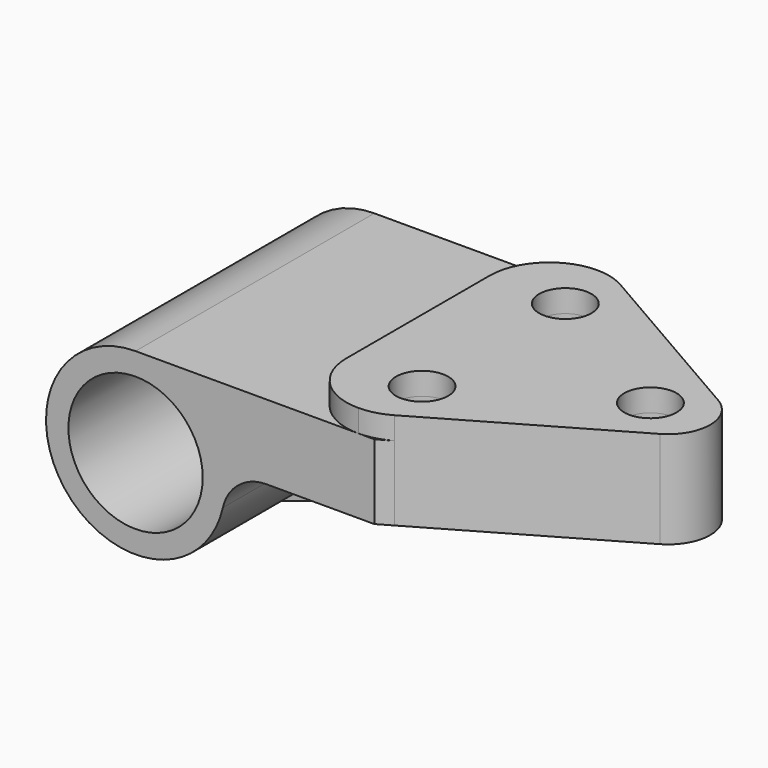
from build123d import *

# Parameters (mm, degrees)
F0_R     = 14.2875
F1_DEPTH = 31.75
F2_DEPTH = 4.7625
F3_R     = 5.5626
F4_DEPTH = 4.7752
F5_DEPTH = 15.875
F6_DEPTH = 15.875


with BuildPart() as f1:
    # F0 (on Front) → F1 (new body, symmetric)
    with BuildSketch(Plane.XZ):
        with BuildLine():
            ThreePointArc((0, 19.05), (12.2967221242, 14.5496778315), (18.7835533113, 3.175))
            Line((18.7835533113, 3.175), (27.86051193, 3.175))
            Line((27.86051193, 3.175), (69.85, 3.175))
            Line((69.85, 3.175), (96.8502, 3.175))
            Line((96.8502, 3.175), (96.8502, 19.05))
            Line((96.8502, 19.05), (0, 19.05))
        make_face()
        with BuildLine():
            ThreePointArc((18.57367462, -4.2333333333), (18.930544122, -2.1300232967), (19.05, 0))
            ThreePointArc((19.05, 0), (18.9832714591, 1.5930802583), (18.7835533113, 3.175))
            ThreePointArc((18.7835533113, 3.175), (12.2967221242, 14.5496778315), (0, 19.05))
            ThreePointArc((0, 19.05), (-18.8046153549, -3.0477764606), (6.0170355936, -18.07478306))
            ThreePointArc((6.0170355936, -18.07478306), (14.1092944486, -12.7996214852), (18.57367462, -4.2333333333))
        make_face()
        Circle(F0_R, mode=Mode.SUBTRACT)
        with BuildLine():
            ThreePointArc((18.7835533113, 3.175), (18.9832714591, 1.5930802583), (19.05, 0))
            ThreePointArc((19.05, 0), (18.930544122, -2.1300232967), (18.57367462, -4.2333333333))
            ThreePointArc((18.57367462, -4.2333333333), (21.9206308285, 1.0960350187), (27.86051193, 3.175))
            Line((27.86051193, 3.175), (18.7835533113, 3.175))
        make_face()
    extrude(amount=F1_DEPTH, both=True)

    # F0 (on Front) → F2 (join, symmetric)
    with BuildSketch(Plane.XZ):
        with BuildLine():
            ThreePointArc((27.86051193, 3.175), (21.9206308285, 1.0960350187), (18.57367462, -4.2333333333))
            ThreePointArc((18.57367462, -4.2333333333), (14.1092944486, -12.7996214852), (6.0170355936, -18.07478306))
            Line((6.0170355936, -18.07478306), (69.85, 3.175))
            Line((69.85, 3.175), (27.86051193, 3.175))
        make_face()
    extrude(amount=F2_DEPTH, both=True)

    # F3 (on face) → F4 (join)
    with BuildSketch(Plane.XY.offset(19.05)):
        with BuildLine():
            ThreePointArc((47.3970452561, -31.75), (50.6840471289, -31.3172579939), (53.7470452561, -30.0485226281))
            Line((53.7470452561, -30.0485226281), (92.3789934298, -7.7443569506))
            ThreePointArc((92.3789934298, -7.7443569506), (95.652143832, -4.4712065327), (96.8502, 8.65e-08))
            ThreePointArc((96.8502, 8.65e-08), (95.6521437887, 4.4712066076), (92.3789934298, 7.7443569506))
            Line((92.3789934298, 7.7443569506), (53.7470452561, 30.0485226281))
            ThreePointArc((53.7470452561, 30.0485226281), (50.6840471289, 31.3172579939), (47.3970452561, 31.75))
            ThreePointArc((47.3970452561, 31.75), (38.4167891351, 28.0302561211), (34.6970452561, 19.05))
            Line((34.6970452561, 19.05), (34.6970452561, -19.05))
            ThreePointArc((34.6970452561, -19.05), (38.4167891351, -28.0302561211), (47.3970452561, -31.75))
        make_face()
        with Locations((50.8, -19.05)):
            Circle(F3_R, mode=Mode.SUBTRACT)
        with Locations((84.1502, 0)):
            Circle(F3_R, mode=Mode.SUBTRACT)
        with Locations((50.8, 19.05)):
            Circle(F3_R, mode=Mode.SUBTRACT)
    extrude(amount=F4_DEPTH)

    # F3 (on face) → F5 (cut, through all)
    with BuildSketch(Plane.XY.offset(19.05)):
        Polygon((53.7470452561, -30.0485226281), (50.8, -31.75), (96.8502, -31.75), (96.8502, -5.1629046338), (92.3789934298, -7.7443569506), align=None)
        Polygon((53.7470452561, 30.0485226281), (92.3789934298, 7.7443569506), (96.8502, 5.1629046338), (96.8502, 31.75), (50.8, 31.75), align=None)
        with BuildLine():
            ThreePointArc((92.3789934298, 7.7443569506), (95.6521437887, 4.4712066076), (96.8502, 8.65e-08))
            Line((96.8502, 8.65e-08), (96.8502, 5.1629046338))
            Line((96.8502, 5.1629046338), (92.3789934298, 7.7443569506))
        make_face()
        with BuildLine():
            ThreePointArc((96.8502, 8.65e-08), (95.652143832, -4.4712065327), (92.3789934298, -7.7443569506))
            Line((92.3789934298, -7.7443569506), (96.8502, -5.1629046338))
            Line((96.8502, -5.1629046338), (96.8502, 8.65e-08))
        make_face()
    extrude(amount=-F5_DEPTH, mode=Mode.SUBTRACT)

    # F3 (on face) → F6 (cut, through all)
    with BuildSketch(Plane.XY.offset(19.05)):
        with Locations((84.1502, 0)):
            Circle(F3_R)
        with Locations((50.8, 19.05)):
            Circle(F3_R)
        with Locations((50.8, -19.05)):
            Circle(F3_R)
    extrude(amount=-F6_DEPTH, mode=Mode.SUBTRACT)


solid = f1.part
